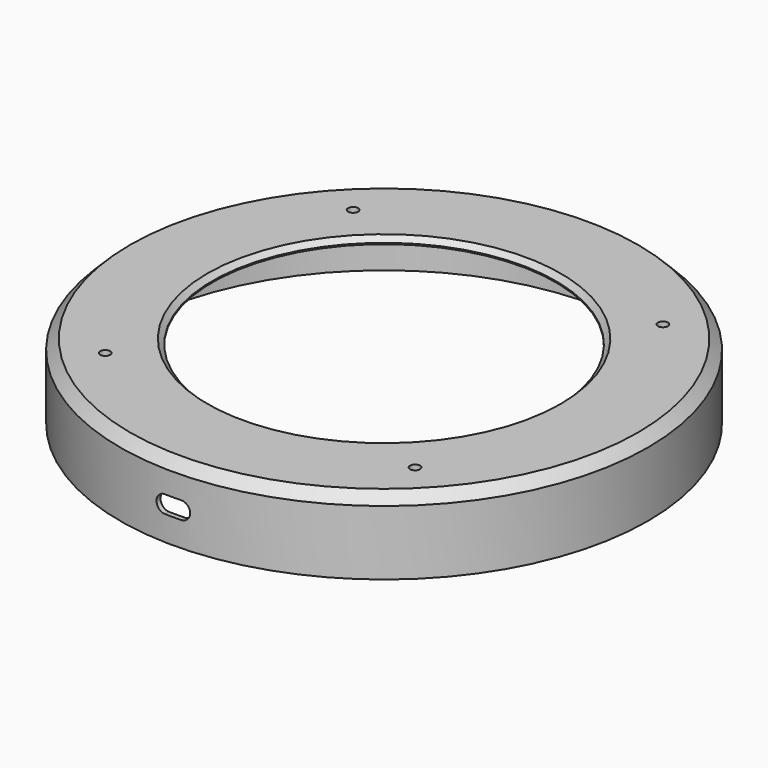
from build123d import *

# Parameters (mm, degrees)
SKETCH_R        = 106.066017
SKETCH_R_2      = 2
SKETCH_R_3      = 69
PAD_DEPTH       = 30
SKETCH023_R     = 104.07
POCKET_DEPTH    = 27.5
CHAMFER_SIZE    = 4
CHAMFER011_SIZE = 2
CHAMFER014_SIZE = 2
POCKET005_DEPTH = 109


with BuildPart() as part:
    # Sketch → Pad (new body)
    with BuildSketch(Plane.XY):
        Circle(SKETCH_R)
        with Locations((-62.25, 62.25)):
            Circle(SKETCH_R_2, mode=Mode.SUBTRACT)
        with Locations((62.25, 62.25)):
            Circle(SKETCH_R_2, mode=Mode.SUBTRACT)
        with Locations((62.25, -62.25)):
            Circle(SKETCH_R_2, mode=Mode.SUBTRACT)
        with Locations((-62.25, -62.25)):
            Circle(SKETCH_R_2, mode=Mode.SUBTRACT)
        Circle(SKETCH_R_3, mode=Mode.SUBTRACT)
    extrude(amount=PAD_DEPTH)

    # Sketch023 → Pocket (cut)
    with BuildSketch(Plane.XY):
        Circle(SKETCH023_R)
    extrude(amount=POCKET_DEPTH, mode=Mode.SUBTRACT)

    # Chamfer
    chamfer_edges = [part.edges().sort_by_distance(p)[0] for p in [
        (-106.066017, 0, 30),
    ]]
    chamfer(chamfer_edges, length=CHAMFER_SIZE)

    # Chamfer011
    chamfer011_edges = [part.edges().sort_by_distance(p)[0] for p in [
        (-69, 0, 30),
    ]]
    chamfer(chamfer011_edges, length=CHAMFER011_SIZE)

    # Chamfer014
    chamfer014_edges = [part.edges().sort_by_distance(p)[0] for p in [
        (-104.07, 0, 27.5),
    ]]
    chamfer(chamfer014_edges, length=CHAMFER014_SIZE)

    # Sketch027 → Pocket005 (cut)
    with BuildSketch(Plane.XZ):
        with BuildLine():
            ThreePointArc((-3.250001, 17), (-6.75, 13.499999), (-3.249999, 10))
            Line((-3.249999, 10), (3.250001, 10))
            ThreePointArc((3.250001, 10), (6.75, 13.500001), (3.249999, 17))
            Line((-3.250001, 17), (3.249999, 17))
        make_face()
    extrude(amount=POCKET005_DEPTH, mode=Mode.SUBTRACT)


with BuildPart() as part_1:
    # Body placement: moved
    add(part.part.moved(Location((0, 0, 79.5))))


solid = part_1.part
